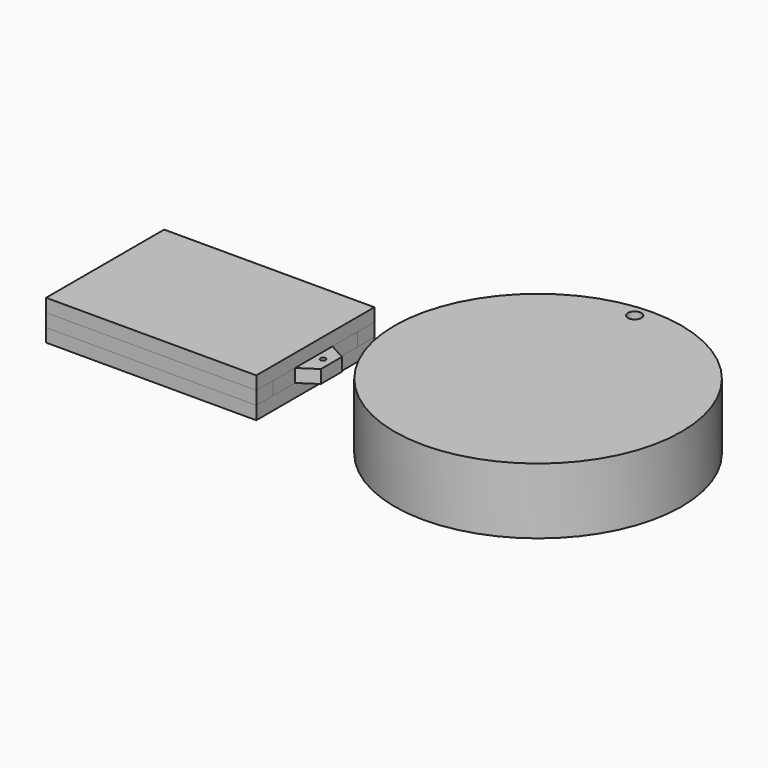
from build123d import *

# Parameters (mm, degrees)
F0_R     = 1
F1_DEPTH = 5
F2_DEPTH = 5
F4_DEPTH = 5
F6_DEPTH = 5
F7_R     = 54.467191
F7_R_2   = 2.575131
F8_DEPTH = 25


with BuildPart() as f1:
    # F0 (on Top) → F1 (new body)
    with BuildSketch(Plane.XY):
        Polygon((38.59535, 20), (-31.154648, 20), (-31.154648, -20), (38.59535, -20), (38.59535, -9.620124), (38.59535, 8.16877), align=None)
        Polygon((44.983294, 4.610992), (38.59535, 8.16877), (38.59535, -9.620124), (44.983294, -5.373743), align=None)
        with Locations((41.54028, 0)):
            Circle(F0_R, mode=Mode.SUBTRACT)
    extrude(amount=F1_DEPTH)


with BuildPart() as f2:
    # F0 (on Top) → F2 (new body)
    with BuildSketch(Plane.XY):
        Polygon((-31.154648, -20), (-31.154648, 20), (38.59535, 20), (38.59535, 28), (-41.154651, 28), (-41.154651, -28), (38.59535, -28), (38.59535, -20), align=None)
    extrude(amount=F2_DEPTH)


with BuildPart() as f4:
    # F3 (on face) → F4 (new body)
    with BuildSketch(Plane(origin=(0, 0, 0), x_dir=(1, 0, 0), z_dir=(0, 0, -1))):
        Polygon((38.59535, 20), (38.59535, 28), (-41.154651, 28), (-41.154651, -28), (38.59535, -28), (38.59535, -20), align=None)
    extrude(amount=F4_DEPTH)


with BuildPart() as f6:
    # F5 (on face) → F6 (new body)
    with BuildSketch(Plane.XY.offset(5)):
        Polygon((-41.154651, 28), (-41.154651, -28), (38.59535, -28), (38.59535, -20), (38.59535, 20), (38.59535, 28), align=None)
    extrude(amount=F6_DEPTH)


with BuildPart() as f8:
    # F7 (on Top) → F8 (new body)
    with BuildSketch(Plane.XY):
        with Locations((123.106591, 0)):
            Circle(F7_R)
        with Locations((120.103993, 49.542896)):
            Circle(F7_R_2, mode=Mode.SUBTRACT)
        with Locations((123.106591, 0)):
            Circle(F7_R)
        with Locations((120.103993, 49.542896)):
            Circle(F7_R_2, mode=Mode.SUBTRACT)
    extrude(amount=F8_DEPTH)


solid = Compound([f1.part, f2.part, f4.part, f6.part, f8.part])
